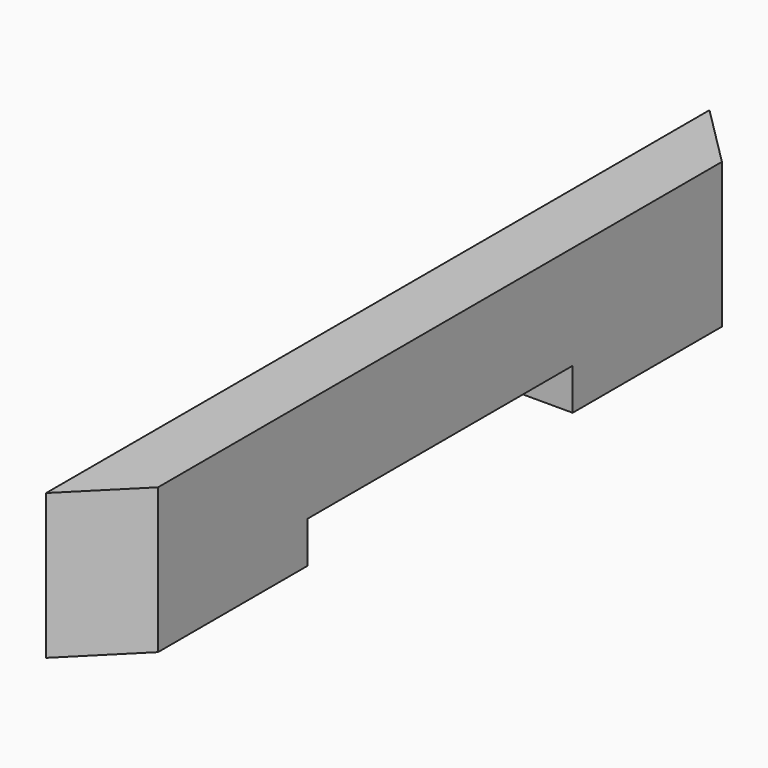
from build123d import *

# Parameters (mm, degrees)
F1_DEPTH = 88.9
F2_W     = 203.2
F2_H     = 50.8
F3_DEPTH = 72.804831


with BuildPart() as f1:
    # F0 (on Top) → F1 (new body)
    with BuildSketch(Plane.XY):
        Polygon((0, 508), (0, 0), (38.1, 38.1), (38.1, 469.9), align=None)
    extrude(amount=F1_DEPTH)

    # F2 (on face) → F3 (cut)
    with BuildSketch(Plane.YZ.offset(38.1)):
        with Locations((254, 0)):
            Rectangle(F2_W, F2_H)
    extrude(amount=-F3_DEPTH, mode=Mode.SUBTRACT)


solid = f1.part
